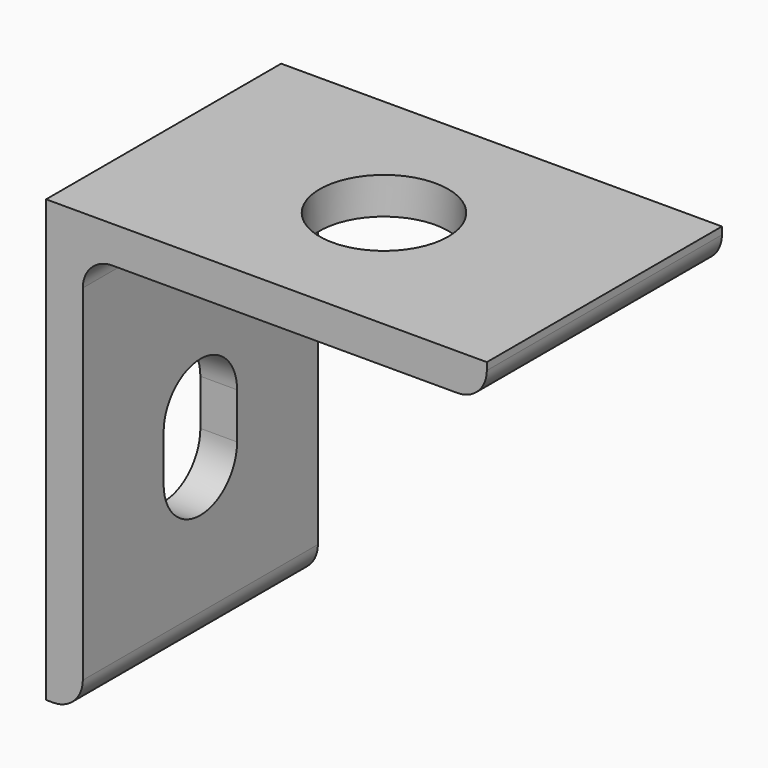
from build123d import *

# Parameters (mm, degrees)
F1_DEPTH  = 50.8
F3_DEPTH  = 76.201
F4_R      = 11.1125
F1_FACE_W = 76.2
F1_FACE_H = 50.8
F5_DEPTH  = 76.201
F6_R      = 5.08


with BuildPart() as f1:
    # F0 (on Front) → F1 (new body)
    with BuildSketch(Plane.XZ):
        Polygon((0, 76.2), (0, 0), (6.35, 0), (6.35, 69.85), (76.2, 69.85), (76.2, 76.2), align=None)
    extrude(amount=F1_DEPTH)

    # F2 (on Right) → F3 (cut, through all)
    with BuildSketch(Plane.YZ):
        with BuildLine():
            Line((-33.3375, 31.75), (-33.3375, 27.78125))
            ThreePointArc((-33.3375, 27.78125), (-25.4, 19.84375), (-17.4625, 27.78125))
            Line((-17.4625, 27.78125), (-17.4625, 31.75))
            Line((-17.4625, 31.75), (-33.3375, 31.75))
        make_face()
        with BuildLine():
            Line((-33.3375, 35.71875), (-33.3375, 31.75))
            Line((-33.3375, 31.75), (-17.4625, 31.75))
            Line((-17.4625, 31.75), (-17.4625, 35.71875))
            ThreePointArc((-17.4625, 35.71875), (-25.4, 43.65625), (-33.3375, 35.71875))
        make_face()
    extrude(amount=F3_DEPTH, mode=Mode.SUBTRACT)

    # F4 (on Top) + F1_face (on face) → F5 (cut, through all)
    with BuildSketch(Plane.XY):
        with Locations((38.1, -25.4)):
            Circle(F4_R)
    with BuildSketch(Plane(origin=(38.1, -25.4, 76.2), x_dir=(1, 0, 0), z_dir=(0, 0, 1))):
        Rectangle(F1_FACE_W, F1_FACE_H)
    extrude(amount=F5_DEPTH, mode=Mode.SUBTRACT)

    # F6
    f6_edges = [f1.edges().sort_by_distance(p)[0] for p in [
        (6.35, -25.4, 69.85),
        (76.2, -25.4, 69.85),
        (6.35, -25.4, 0),
    ]]
    fillet(f6_edges, radius=F6_R)


solid = f1.part
